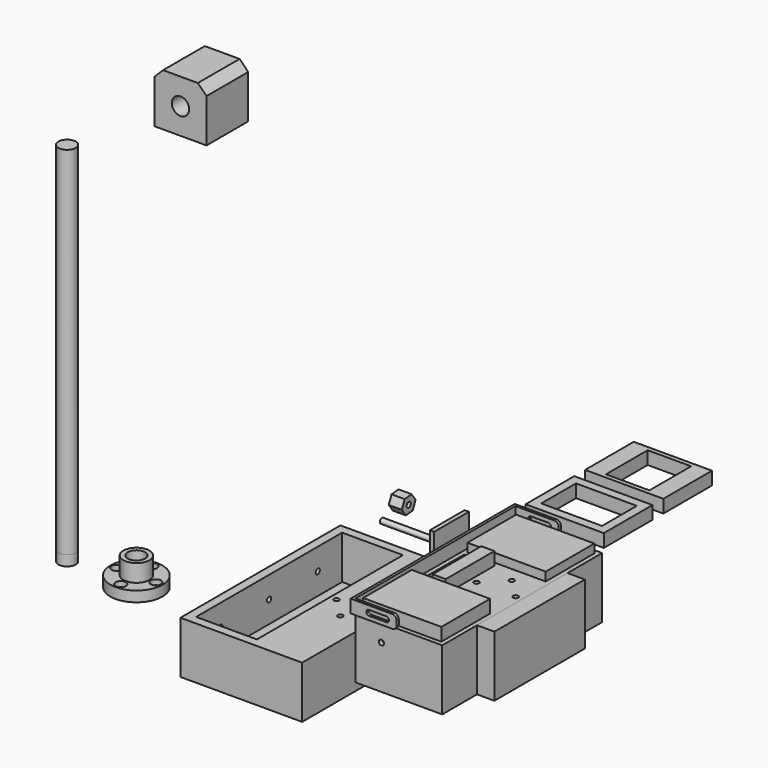
from build123d import *

# Parameters (mm, degrees)
F0_W      = 140
F0_H      = 60
F1_DEPTH  = 230
F2_R      = 30
F2_R_2    = 6
F2_R_3    = 15
F2_R_4    = 10
F2_R_5    = 3
F3_DEPTH  = 12
F4_DEPTH  = 6
F5_DEPTH  = 20
F6_DEPTH  = 410
F7_W      = 60
F7_H      = 60
F7_R      = 10
F8_DEPTH  = 60
F9_R      = 2.6
F10_DEPTH = 15
F11_W     = 70
F11_H     = 210
F11_R     = 3
F12_DEPTH = 50
F13_R     = 3
F14_DEPTH = 10
F16_R     = 3
F17_DEPTH = 15
F18_DEPTH = 10
F15_W     = 50
F15_H     = 50
F15_R     = 3
F19_DEPTH = 80
F20_DEPTH = 75
F21_SIZE  = 10
F22_W     = 100
F22_H     = 230
F22_W_2   = 90
F22_H_2   = 70
F22_R     = 3
F22_W_3   = 35
F23_DEPTH = 5
F24_DEPTH = 70
F25_DEPTH = 40
F26_W     = 130
F26_H     = 70
F27_DEPTH = 20
F29_DEPTH = 15
F30_R     = 5
F32_DEPTH = 341.2027353209
F33_R     = 3
F34_DEPTH = 5
F35_R     = 3
F36_DEPTH = 5
F37_W     = 90
F37_H     = 70
F38_DEPTH = 15
F37_W_2   = 15
F37_W_3   = 70
F37_H_2   = 50
F37_W_4   = 50
F37_H_3   = 60
F39_DEPTH = 10


with BuildPart() as f1:
    # F0 (on Front) → F1 (new body)
    with BuildSketch(Plane.XZ):
        with Locations((70, -130)):
            Rectangle(F0_W, F0_H)
    extrude(amount=-F1_DEPTH)

    # F11 (on face) → F12 (cut)
    with BuildSketch(Plane.XY.offset(-100)):
        with Locations((45, 115)):
            Rectangle(F11_W, F11_H)
        with Locations((110, 137.5)):
            Circle(F11_R)
        with Locations((87.5, 115)):
            Circle(F11_R)
        with Locations((110, 92.5)):
            Circle(F11_R)
        with Locations((132.5, 115)):
            Circle(F11_R)
    extrude(amount=-F12_DEPTH, mode=Mode.SUBTRACT)

    # F13 (on face) → F14 (cut)
    with BuildSketch(Plane(origin=(0, 0, 0), x_dir=(0, -1, 0), z_dir=(-1, 0, 0))):
        with Locations((-115, -125)):
            Circle(F13_R)
        with Locations((-185, -125)):
            Circle(F13_R)
        with Locations((-45, -125)):
            Circle(F13_R)
    extrude(amount=-F14_DEPTH, mode=Mode.SUBTRACT)


with BuildPart() as f3:
    # F2 (on face) → F3 (new body)
    with BuildSketch(Plane.XY.offset(-100)):
        with Locations((-82.6628729701, 40)):
            Circle(F2_R)
        with Locations((-105.1628729701, 40)):
            Circle(F2_R_2, mode=Mode.SUBTRACT)
        with Locations((-82.6628729701, 17.5)):
            Circle(F2_R_2, mode=Mode.SUBTRACT)
        with Locations((-82.6628729701, 40)):
            Circle(F2_R_3, mode=Mode.SUBTRACT)
        with Locations((-60.1628729701, 40)):
            Circle(F2_R_2, mode=Mode.SUBTRACT)
        with Locations((-82.6628729701, 62.5)):
            Circle(F2_R_2, mode=Mode.SUBTRACT)
        with Locations((-82.6628729701, 40)):
            Circle(F2_R)
        with Locations((-105.1628729701, 40)):
            Circle(F2_R_2, mode=Mode.SUBTRACT)
        with Locations((-82.6628729701, 17.5)):
            Circle(F2_R_2, mode=Mode.SUBTRACT)
        with Locations((-82.6628729701, 40)):
            Circle(F2_R_3, mode=Mode.SUBTRACT)
        with Locations((-60.1628729701, 40)):
            Circle(F2_R_2, mode=Mode.SUBTRACT)
        with Locations((-82.6628729701, 62.5)):
            Circle(F2_R_2, mode=Mode.SUBTRACT)
        with Locations((-82.6628729701, 40)):
            Circle(F2_R_3)
        with Locations((-82.6628729701, 40)):
            Circle(F2_R_4, mode=Mode.SUBTRACT)
        with Locations((-105.1628729701, 40)):
            Circle(F2_R_2)
        with Locations((-105.1628729701, 40)):
            Circle(F2_R_5, mode=Mode.SUBTRACT)
        with Locations((-82.6628729701, 62.5)):
            Circle(F2_R_2)
        with Locations((-82.6628729701, 62.5)):
            Circle(F2_R_5, mode=Mode.SUBTRACT)
        with Locations((-60.1628729701, 40)):
            Circle(F2_R_2)
        with Locations((-60.1628729701, 40)):
            Circle(F2_R_5, mode=Mode.SUBTRACT)
        with Locations((-82.6628729701, 17.5)):
            Circle(F2_R_2)
        with Locations((-82.6628729701, 17.5)):
            Circle(F2_R_5, mode=Mode.SUBTRACT)
    extrude(amount=-F3_DEPTH)

    # F2 (on face) → F4 (cut)
    with BuildSketch(Plane.XY.offset(-100)):
        with Locations((-82.6628729701, 62.5)):
            Circle(F2_R_2)
        with Locations((-82.6628729701, 62.5)):
            Circle(F2_R_5, mode=Mode.SUBTRACT)
        with Locations((-60.1628729701, 40)):
            Circle(F2_R_2)
        with Locations((-60.1628729701, 40)):
            Circle(F2_R_5, mode=Mode.SUBTRACT)
        with Locations((-82.6628729701, 17.5)):
            Circle(F2_R_2)
        with Locations((-82.6628729701, 17.5)):
            Circle(F2_R_5, mode=Mode.SUBTRACT)
        with Locations((-105.1628729701, 40)):
            Circle(F2_R_2)
        with Locations((-105.1628729701, 40)):
            Circle(F2_R_5, mode=Mode.SUBTRACT)
    extrude(amount=-F4_DEPTH, mode=Mode.SUBTRACT)

    # F2 (on face) → F5 (join)
    with BuildSketch(Plane.XY.offset(-100)):
        with Locations((-82.6628729701, 40)):
            Circle(F2_R_3)
        with Locations((-82.6628729701, 40)):
            Circle(F2_R_4, mode=Mode.SUBTRACT)
    extrude(amount=F5_DEPTH)


with BuildPart() as f3b:
    # F2 (on face) → F3, piece 2 (new body)
    with BuildSketch(Plane.XY.offset(-100)):
        with Locations((-162.3637825251, 40)):
            Circle(F2_R_4)
    extrude(amount=-F3_DEPTH)

    # F2 (on face) → F6 (join)
    with BuildSketch(Plane.XY.offset(-100)):
        with Locations((-162.3637825251, 40)):
            Circle(F2_R_4)
    extrude(amount=F6_DEPTH)


with BuildPart() as f8:
    # F7 (on Front) → F8 (new body)
    with BuildSketch(Plane.XZ):
        with Locations((0, 418.0536019802)):
            Rectangle(F7_W, F7_H)
        with Locations((0, 418.0536019802)):
            Circle(F7_R, mode=Mode.SUBTRACT)
    extrude(amount=-F8_DEPTH)

    # F9 (on face) → F10 (cut)
    with BuildSketch(Plane(origin=(0, 0, 388.0536019802), x_dir=(1, 0, 0), z_dir=(0, 0, -1))):
        with Locations((0, -7.5)):
            Circle(F9_R)
        with Locations((-22.5, -30)):
            Circle(F9_R)
        with Locations((0, -52.5)):
            Circle(F9_R)
        with Locations((22.5, -30)):
            Circle(F9_R)
    extrude(amount=-F10_DEPTH, mode=Mode.SUBTRACT)

    # F21
    f21_edges = [f8.edges().sort_by_distance(p)[0] for p in [
        (-30, 30, 448.053602),
        (30, 30, 448.053602),
    ]]
    chamfer(f21_edges, length=F21_SIZE)


with BuildPart() as f17:
    # F16 (on face) → F17 (new body)
    with BuildSketch(Plane(origin=(0, 0, 0), x_dir=(0, -1, 0), z_dir=(-1, 0, 0))):
        Polygon((-318.3024188844, -120.0675373993), (-322.4093620535, -110.9498064422), (-332.3590202718, -109.9476580801), (-338.2017353209, -118.063240675), (-334.0947921518, -127.180971632), (-324.1451339335, -128.1831199942), align=None)
        with Locations((-328.2520771027, -119.0653890371)):
            Circle(F16_R, mode=Mode.SUBTRACT)
        with Locations((-328.2520771027, -119.0653890371)):
            Circle(F16_R)
    extrude(amount=F17_DEPTH)

    # F16 (on face) → F18 (cut)
    with BuildSketch(Plane(origin=(0, 0, 0), x_dir=(0, -1, 0), z_dir=(-1, 0, 0))):
        with Locations((-328.2520771027, -119.0653890371)):
            Circle(F16_R)
    extrude(amount=F18_DEPTH, mode=Mode.SUBTRACT)


with BuildPart() as f19:
    # F15 (on face) → F19 (new body)
    with BuildSketch(Plane(origin=(0, 0, 0), x_dir=(0, -1, 0), z_dir=(-1, 0, 0))):
        with Locations((-289.8397386074, -119.6393579245)):
            Rectangle(F15_W, F15_H)
        with Locations((-289.8397386074, -119.6393579245)):
            Circle(F15_R, mode=Mode.SUBTRACT)
        with Locations((-289.8397386074, -119.6393579245)):
            Circle(F15_R)
    extrude(amount=-F19_DEPTH)

    # F15 (on face) → F20 (cut)
    with BuildSketch(Plane(origin=(0, 0, 0), x_dir=(0, -1, 0), z_dir=(-1, 0, 0))):
        with Locations((-289.8397386074, -119.6393579245)):
            Rectangle(F15_W, F15_H)
        with Locations((-289.8397386074, -119.6393579245)):
            Circle(F15_R, mode=Mode.SUBTRACT)
    extrude(amount=-F20_DEPTH, mode=Mode.SUBTRACT)


with BuildPart() as f23:
    # F22 (on face) → F23 (new body)
    with BuildSketch(Plane.XY.offset(-100)):
        with Locations((251.1832594872, 115)):
            Rectangle(F22_W, F22_H)
        with Locations((251.1832594872, 40)):
            Rectangle(F22_W_2, F22_H_2, mode=Mode.SUBTRACT)
        with Locations((271.1832594872, 92.5)):
            Circle(F22_R, mode=Mode.SUBTRACT)
        with Locations((223.6832594872, 115)):
            Rectangle(F22_W_3, F22_H_2, mode=Mode.SUBTRACT)
        with Locations((248.6832594872, 115)):
            Circle(F22_R, mode=Mode.SUBTRACT)
        with Locations((293.6832594872, 115)):
            Circle(F22_R, mode=Mode.SUBTRACT)
        with Locations((271.1832594872, 137.5)):
            Circle(F22_R, mode=Mode.SUBTRACT)
        with Locations((251.1832594872, 190)):
            Rectangle(F22_W_2, F22_H_2, mode=Mode.SUBTRACT)
        with Locations((271.1832594872, 92.5)):
            Circle(F22_R)
        with Locations((248.6832594872, 115)):
            Circle(F22_R)
        with Locations((293.6832594872, 115)):
            Circle(F22_R)
        with Locations((271.1832594872, 137.5)):
            Circle(F22_R)
        with Locations((223.6832594872, 115)):
            Rectangle(F22_W_3, F22_H_2)
        with Locations((251.1832594872, 40)):
            Rectangle(F22_W_2, F22_H_2)
        with Locations((251.1832594872, 190)):
            Rectangle(F22_W_2, F22_H_2)
    extrude(amount=F23_DEPTH)

    # F22 (on face) → F24 (join)
    with BuildSketch(Plane.XY.offset(-100)):
        with Locations((251.1832594872, 115)):
            Rectangle(F22_W, F22_H)
        with Locations((251.1832594872, 40)):
            Rectangle(F22_W_2, F22_H_2, mode=Mode.SUBTRACT)
        with Locations((271.1832594872, 92.5)):
            Circle(F22_R, mode=Mode.SUBTRACT)
        with Locations((223.6832594872, 115)):
            Rectangle(F22_W_3, F22_H_2, mode=Mode.SUBTRACT)
        with Locations((248.6832594872, 115)):
            Circle(F22_R, mode=Mode.SUBTRACT)
        with Locations((271.1832594872, 137.5)):
            Circle(F22_R, mode=Mode.SUBTRACT)
        with Locations((293.6832594872, 115)):
            Circle(F22_R, mode=Mode.SUBTRACT)
        with Locations((251.1832594872, 190)):
            Rectangle(F22_W_2, F22_H_2, mode=Mode.SUBTRACT)
    extrude(amount=F24_DEPTH)

    # F22 (on face) → F25 (join)
    with BuildSketch(Plane.XY.offset(-100)):
        with Locations((248.6832594872, 115)):
            Circle(F22_R)
        with Locations((271.1832594872, 137.5)):
            Circle(F22_R)
        with Locations((271.1832594872, 92.5)):
            Circle(F22_R)
        with Locations((293.6832594872, 115)):
            Circle(F22_R)
    extrude(amount=F25_DEPTH)

    # F33 (on face) → F34 (cut, through all)
    with BuildSketch(Plane.XZ):
        with Locations((231.1832594872, -50)):
            Circle(F33_R)
    extrude(amount=-F34_DEPTH, mode=Mode.SUBTRACT)

    # F35 (on face) → F36 (cut, through all)
    with BuildSketch(Plane(origin=(0, 230, 0), x_dir=(-1, 0, 0), z_dir=(0, 1, 0))):
        with Locations((-231.1832594872, -50)):
            Circle(F35_R)
    extrude(amount=-F36_DEPTH, mode=Mode.SUBTRACT)


with BuildPart() as f27:
    # F26 (on face) → F27 (new body)
    with BuildSketch(Plane.YZ.offset(301.1832594872)):
        with Locations((115, -65)):
            Rectangle(F26_W, F26_H)
    extrude(amount=F27_DEPTH)


with BuildPart() as f29:
    # F28 (on face) → F29 (new body)
    with BuildSketch(Plane.XY.offset(-30)):
        Polygon((201.1832594872, 230), (251.1832594872, 230), (251.1832594872, 233), (198.1832594872, 233), (198.1832594872, -3), (251.1832594872, -3), (251.1832594872, 0), (201.1832594872, 0), align=None)
    extrude(amount=F29_DEPTH)

    # F30
    f30_edges = [f29.edges().sort_by_distance(p)[0] for p in [
        (251.183259, -1.5, -15),
        (251.183259, -1.5, -30),
        (251.183259, 231.5, -15),
        (251.183259, 231.5, -30),
    ]]
    fillet(f30_edges, radius=F30_R)

    # F31 (on face) → F32 (cut, through all)
    with BuildSketch(Plane.XZ.offset(3)):
        with BuildLine():
            Line((239.2039692402, -19.5), (219.2039692402, -19.5))
            ThreePointArc((219.2039692402, -19.5), (216.2039692402, -22.5), (219.2039692402, -25.5))
            Line((219.2039692402, -25.5), (239.2039692402, -25.5))
            ThreePointArc((239.2039692402, -25.5), (242.2039692402, -22.5), (239.2039692402, -19.5))
        make_face()
    extrude(amount=-F32_DEPTH, mode=Mode.SUBTRACT)


with BuildPart() as f38:
    # F37 (on face) → F38 (new body)
    with BuildSketch(Plane.XY.offset(-30)):
        with Locations((251.1832594872, 40)):
            Rectangle(F37_W, F37_H)
    extrude(amount=F38_DEPTH)


with BuildPart() as f38b:
    # F37 (on face) → F38, piece 2 (new body)
    with BuildSketch(Plane.XY.offset(-30)):
        with Locations((233.6832594872, 115)):
            Rectangle(F37_W_2, F37_H)
    extrude(amount=F38_DEPTH)


with BuildPart() as f38c:
    # F37 (on face) → F38, piece 3 (new body)
    with BuildSketch(Plane.XY.offset(-30)):
        with Locations((251.1832594872, 273.5694682598)):
            Rectangle(F37_W, F37_H)
        with Locations((251.1832594872, 273.5694682598)):
            Rectangle(F37_W_3, F37_H_2, mode=Mode.SUBTRACT)
    extrude(amount=F38_DEPTH)


with BuildPart() as f38d:
    # F37 (on face) → F38, piece 4 (new body)
    with BuildSketch(Plane.XY.offset(-30)):
        with Locations((251.1832594872, 359.1676390171)):
            Rectangle(F37_W, F37_H)
        with Locations((251.1832594872, 359.1676390171)):
            Rectangle(F37_W_4, F37_H_3, mode=Mode.SUBTRACT)
    extrude(amount=F38_DEPTH)


with BuildPart() as f39:
    # F37 (on face) → F39 (new body)
    with BuildSketch(Plane.XY.offset(-30)):
        with Locations((251.1832594872, 190)):
            Rectangle(F37_W, F37_H)
    extrude(amount=F39_DEPTH)


solid = Compound([f1.part, f3.part, f3b.part, f8.part, f17.part, f19.part, f23.part, f27.part, f29.part, f38.part, f38b.part, f38c.part, f38d.part, f39.part])
